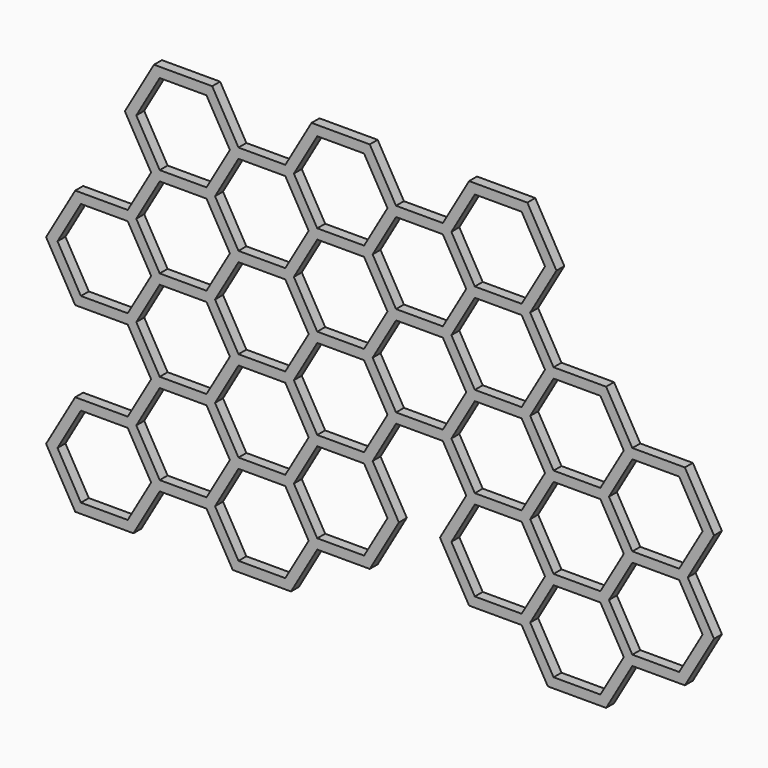
from build123d import *

# Parameters (mm, degrees)
F1_DEPTH = 6.35


with BuildPart() as f1:
    # F0 (on Front) → F1 (new body)
    with BuildSketch(Plane.XZ):
        Polygon((-140.814617, -143.280209), (-123.98153, -114.124446), (-90.315356, -114.124446), (-71.649181, -81.793684), (-88.482268, -52.637922), (-73.482268, -26.65716), (-43.482268, -26.65716), (-28.482268, -52.637922), (-45.315356, -81.793684), (-26.649181, -114.124446), (7.016993, -114.124446), (23.85008, -143.280209), (61.182428, -143.280209), (78.015515, -114.124446), (111.68169, -114.124446), (130.347864, -81.793684), (113.514777, -52.637922), (130.347864, -23.48216), (111.68169, 8.848602), (78.015515, 8.848602), (61.182428, 38.004364), (27.516254, 38.004364), (12.516254, 63.985126), (29.349341, 93.140888), (10.683167, 125.471651), (-26.649181, 125.471651), (-43.482268, 96.315888), (-73.482268, 96.315888), (-90.315356, 125.471651), (-127.647704, 125.471651), (-144.480791, 96.315888), (-174.480791, 96.315888), (-191.313878, 125.471651), (-228.646227, 125.471651), (-247.312401, 93.140888), (-230.479314, 63.985126), (-245.479314, 38.004364), (-279.145488, 38.004364), (-297.811662, 5.673602), (-279.145488, -26.65716), (-245.479314, -26.65716), (-230.479314, -52.637922), (-245.479314, -78.618684), (-279.145488, -78.618684), (-297.811662, -110.949446), (-279.145488, -143.280209), (-241.813139, -143.280209), (-224.980052, -114.124446), (-194.980052, -114.124446), (-178.146965, -143.280209), align=None)
        Polygon((-245.479314, -84.968684), (-230.479314, -110.949446), (-245.479314, -136.930209), (-275.479314, -136.930209), (-290.479314, -110.949446), (-275.479314, -84.968684), align=None, mode=Mode.SUBTRACT)
        Polygon((-194.980052, -55.812922), (-179.980052, -81.793684), (-194.980052, -107.774446), (-224.980052, -107.774446), (-239.980052, -81.793684), (-224.980052, -55.812922), align=None, mode=Mode.SUBTRACT)
        Polygon((-144.480791, -84.968684), (-129.480791, -110.949446), (-144.480791, -136.930209), (-174.480791, -136.930209), (-189.480791, -110.949446), (-174.480791, -84.968684), align=None, mode=Mode.SUBTRACT)
        Polygon((-93.98153, -55.812922), (-78.98153, -81.793684), (-93.98153, -107.774446), (-123.98153, -107.774446), (-138.98153, -81.793684), (-123.98153, -55.812922), align=None, mode=Mode.SUBTRACT)
        Polygon((-194.980052, 2.498602), (-179.980052, -23.48216), (-194.980052, -49.462922), (-224.980052, -49.462922), (-239.980052, -23.48216), (-224.980052, 2.498602), align=None, mode=Mode.SUBTRACT)
        Polygon((-144.480791, -26.65716), (-129.480791, -52.637922), (-144.480791, -78.618684), (-174.480791, -78.618684), (-189.480791, -52.637922), (-174.480791, -26.65716), align=None, mode=Mode.SUBTRACT)
        Polygon((-93.98153, 2.498602), (-78.98153, -23.48216), (-93.98153, -49.462922), (-123.98153, -49.462922), (-138.98153, -23.48216), (-123.98153, 2.498602), align=None, mode=Mode.SUBTRACT)
        Polygon((7.016993, -55.812922), (22.016993, -81.793684), (7.016993, -107.774446), (-22.983007, -107.774446), (-37.983007, -81.793684), (-22.983007, -55.812922), align=None, mode=Mode.SUBTRACT)
        Polygon((57.516254, -84.968684), (72.516254, -110.949446), (57.516254, -136.930209), (27.516254, -136.930209), (12.516254, -110.949446), (27.516254, -84.968684), align=None, mode=Mode.SUBTRACT)
        Polygon((108.015515, -55.812922), (123.015515, -81.793684), (108.015515, -107.774446), (78.015515, -107.774446), (63.015515, -81.793684), (78.015515, -55.812922), align=None, mode=Mode.SUBTRACT)
        Polygon((7.016993, 2.498602), (22.016993, -23.48216), (7.016993, -49.462922), (-22.983007, -49.462922), (-37.983007, -23.48216), (-22.983007, 2.498602), align=None, mode=Mode.SUBTRACT)
        Polygon((57.516254, -26.65716), (72.516254, -52.637922), (57.516254, -78.618684), (27.516254, -78.618684), (12.516254, -52.637922), (27.516254, -26.65716), align=None, mode=Mode.SUBTRACT)
        Polygon((108.015515, 2.498602), (123.015515, -23.48216), (108.015515, -49.462922), (78.015515, -49.462922), (63.015515, -23.48216), (78.015515, 2.498602), align=None, mode=Mode.SUBTRACT)
        Polygon((-245.479314, 31.654364), (-230.479314, 5.673602), (-245.479314, -20.30716), (-275.479314, -20.30716), (-290.479314, 5.673602), (-275.479314, 31.654364), align=None, mode=Mode.SUBTRACT)
        Polygon((-194.980052, 60.810126), (-179.980052, 34.829364), (-194.980052, 8.848602), (-224.980052, 8.848602), (-239.980052, 34.829364), (-224.980052, 60.810126), align=None, mode=Mode.SUBTRACT)
        Polygon((-144.480791, 31.654364), (-129.480791, 5.673602), (-144.480791, -20.30716), (-174.480791, -20.30716), (-189.480791, 5.673602), (-174.480791, 31.654364), align=None, mode=Mode.SUBTRACT)
        Polygon((-93.98153, 60.810126), (-78.98153, 34.829364), (-93.98153, 8.848602), (-123.98153, 8.848602), (-138.98153, 34.829364), (-123.98153, 60.810126), align=None, mode=Mode.SUBTRACT)
        Polygon((-194.980052, 119.121651), (-179.980052, 93.140888), (-194.980052, 67.160126), (-224.980052, 67.160126), (-239.980052, 93.140888), (-224.980052, 119.121651), align=None, mode=Mode.SUBTRACT)
        Polygon((-144.480791, 89.965888), (-129.480791, 63.985126), (-144.480791, 38.004364), (-174.480791, 38.004364), (-189.480791, 63.985126), (-174.480791, 89.965888), align=None, mode=Mode.SUBTRACT)
        Polygon((-93.98153, 119.121651), (-78.98153, 93.140888), (-93.98153, 67.160126), (-123.98153, 67.160126), (-138.98153, 93.140888), (-123.98153, 119.121651), align=None, mode=Mode.SUBTRACT)
        Polygon((-43.482268, 31.654364), (-28.482268, 5.673602), (-43.482268, -20.30716), (-73.482268, -20.30716), (-88.482268, 5.673602), (-73.482268, 31.654364), align=None, mode=Mode.SUBTRACT)
        Polygon((7.016993, 60.810126), (22.016993, 34.829364), (7.016993, 8.848602), (-22.983007, 8.848602), (-37.983007, 34.829364), (-22.983007, 60.810126), align=None, mode=Mode.SUBTRACT)
        Polygon((57.516254, 31.654364), (72.516254, 5.673602), (57.516254, -20.30716), (27.516254, -20.30716), (12.516254, 5.673602), (27.516254, 31.654364), align=None, mode=Mode.SUBTRACT)
        Polygon((-43.482268, 89.965888), (-28.482268, 63.985126), (-43.482268, 38.004364), (-73.482268, 38.004364), (-88.482268, 63.985126), (-73.482268, 89.965888), align=None, mode=Mode.SUBTRACT)
        Polygon((7.016993, 119.121651), (22.016993, 93.140888), (7.016993, 67.160126), (-22.983007, 67.160126), (-37.983007, 93.140888), (-22.983007, 119.121651), align=None, mode=Mode.SUBTRACT)
    extrude(amount=F1_DEPTH)


solid = f1.part
